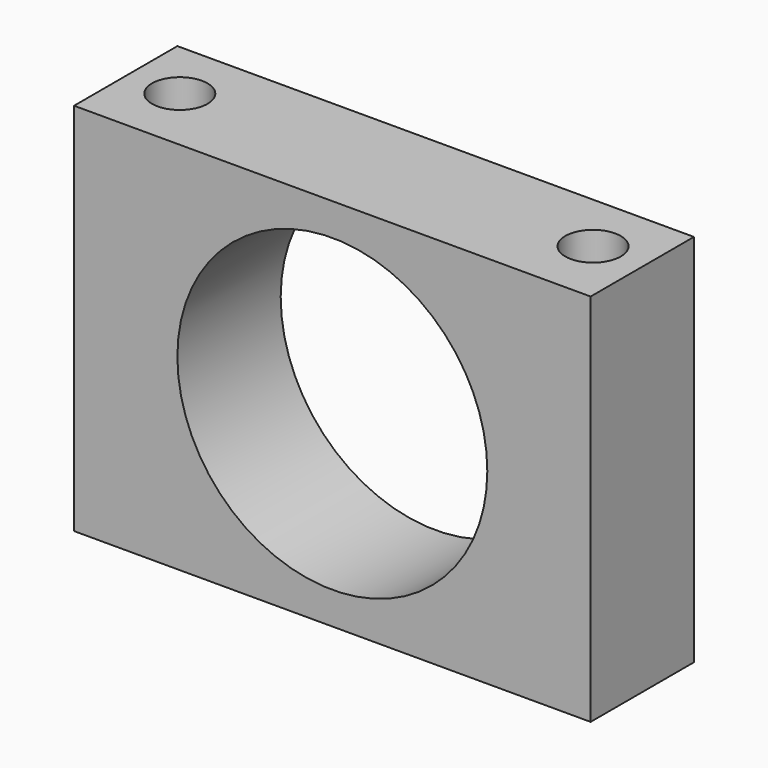
from build123d import *

# Parameters (mm, degrees)
F0_W     = 20
F0_H     = 14.5
F0_R     = 6
F1_DEPTH = 5
F3_D     = 2.15


with BuildPart() as f1:
    # F0 (on Front) → F1 (new body)
    with BuildSketch(Plane.XZ):
        Rectangle(F0_W, F0_H)
        Circle(F0_R, mode=Mode.SUBTRACT)
    extrude(amount=F1_DEPTH)

    # F3 (through all)
    with Locations(Plane.XY.offset(7.25)):
        with Locations((8, -2.3832623847), (-8, -2.3832623847)):
            Hole(F3_D / 2)


solid = f1.part
